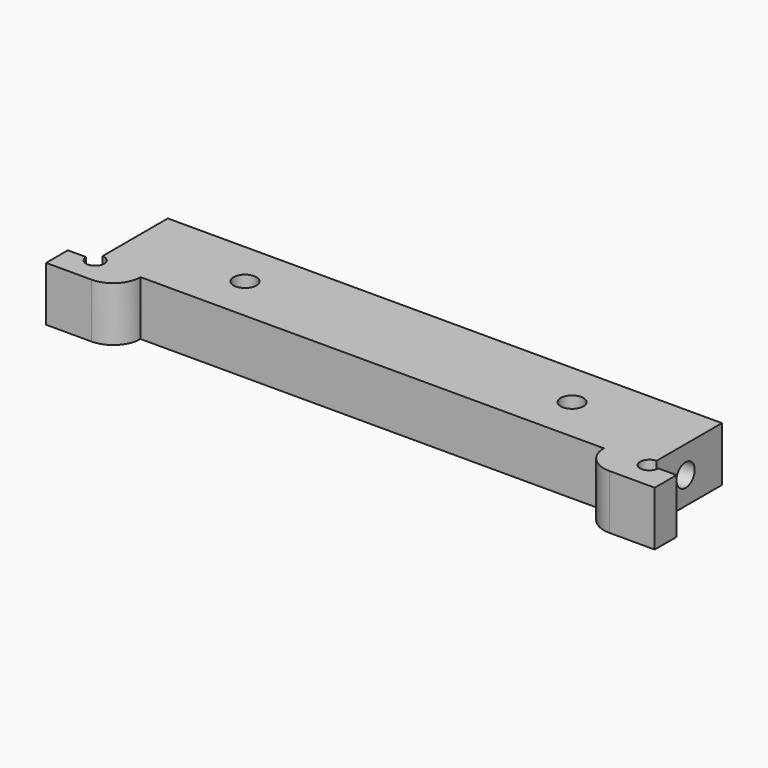
from build123d import *

# Parameters (mm, degrees)
F0_R     = 1.25
F1_DEPTH = 6
F2_R     = 1.25
F3_DEPTH = 64.001


with BuildPart() as f1:
    # F0 (on Top) → F1 (new body)
    with BuildSketch(Plane.XY):
        with BuildLine():
            Line((30.5, -4), (30.5, 5))
            Line((30.5, 5), (-30.5, 5))
            Line((-30.5, 5), (-30.5, -4))
            ThreePointArc((-30.5, -4), (-29.792893, -5.707107), (-31.5, -5))
            Line((-31.5, -5), (-33.5, -5))
            Line((-33.5, -5), (-33.5, -8))
            Line((-33.5, -8), (-28.5, -8))
            ThreePointArc((-28.5, -8), (-26.37868, -7.12132), (-25.5, -5))
            Line((-25.5, -5), (25.5, -5))
            ThreePointArc((25.5, -5), (26.37868, -7.12132), (28.5, -8))
            Line((28.5, -8), (33.5, -8))
            Line((33.5, -8), (33.5, -5))
            Line((33.5, -5), (31.5, -5))
            ThreePointArc((31.5, -5), (29.792893, -5.707107), (30.5, -4))
        make_face()
        with Locations((-18, 0)):
            Circle(F0_R, mode=Mode.SUBTRACT)
        with Locations((18, 0)):
            Circle(F0_R, mode=Mode.SUBTRACT)
    extrude(amount=F1_DEPTH)

    # F2 (on face) → F3 (cut, through all)
    with BuildSketch(Plane.YZ.offset(30.5)):
        with Locations((0, 3)):
            Circle(F2_R)
    extrude(amount=-F3_DEPTH, mode=Mode.SUBTRACT)


solid = f1.part
